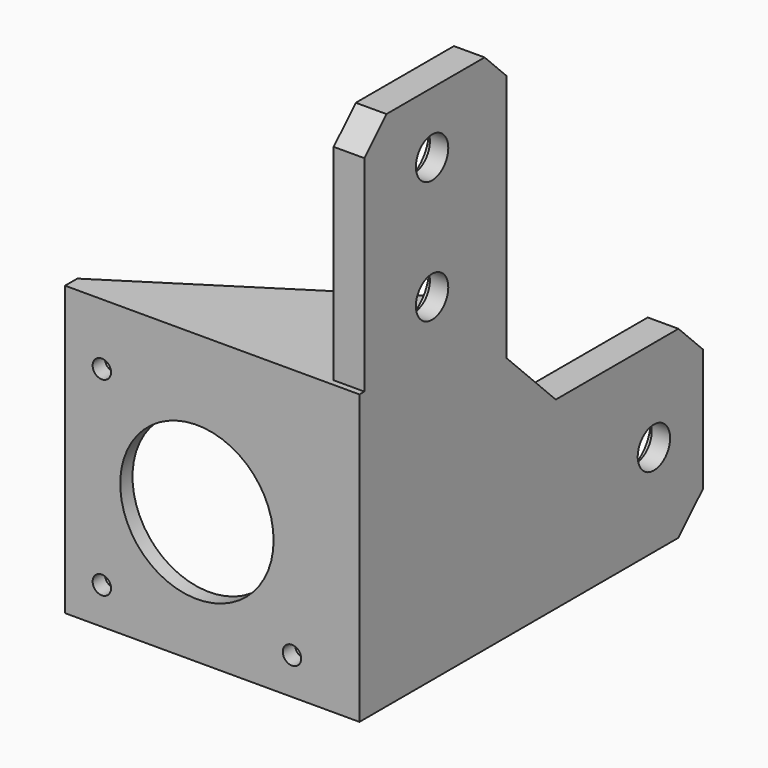
from build123d import *

# Parameters (mm, degrees)
F0_W           = 48
F0_H           = 43
F0_R           = 1.5
F0_R_2         = 12.5
F1_DEPTH       = 2.5
F3_DEPTH       = 5
F5_D           = 6.6
F5_DEPTH       = 20
F5_CBORE_D     = 11.25
F5_CBORE_DEPTH = 2
F7_DEPTH       = 4
F8_DEPTH       = 1


with BuildPart() as f1:
    # F0 (on Front) → F1 (new body)
    with BuildSketch(Plane.XZ):
        with Locations((-24, 21.5)):
            Rectangle(F0_W, F0_H)
        with Locations((-42, 6)):
            Circle(F0_R, mode=Mode.SUBTRACT)
        with Locations((-11, 6)):
            Circle(F0_R, mode=Mode.SUBTRACT)
        with Locations((-26.5, 21.5)):
            Circle(F0_R_2, mode=Mode.SUBTRACT)
        with Locations((-42, 37)):
            Circle(F0_R, mode=Mode.SUBTRACT)
    extrude(amount=-F1_DEPTH)

    # F2 (on Right) → F3 (join)
    with BuildSketch(Plane.YZ):
        Polygon((1, 43), (0, 43), (0, 0), (65, 0), (70, 5), (70, 25), (65, 30), (40, 30), (30, 40), (30, 80.5), (25.5, 85), (5.5, 85), (1, 80.5), align=None)
    extrude(amount=-F3_DEPTH)

    # F5
    with Locations(Plane(origin=(-5, 0, 0), x_dir=(0, -1, 0), z_dir=(-1, 0, 0))):
        with Locations((-14.795874, 75), (-14.795874, 55), (-60, 15)):
            CounterBoreHole(F5_D / 2, F5_CBORE_D / 2, F5_CBORE_DEPTH, depth=F5_DEPTH)

    # F6 (on face) → F7 (join)
    with BuildSketch(Plane.XY.offset(43)):
        Polygon((-5, 30), (-48, 2.5), (-5, 2.5), (-5, 1), (0, 1), (0, 30), align=None)
        Polygon((-48, 2.5), (-48, 0), (0, 0), (0, 1), (-5, 1), (-5, 2.5), align=None)
    extrude(amount=F7_DEPTH)

    # F7_face (on face) → F8 (cut)
    with BuildSketch(Plane(origin=(-19.333333, 11.666667, 43), x_dir=(1, 0, 0), z_dir=(0, 0, -1))):
        Polygon((14.333333, -18.333333), (14.333333, 9.166667), (-28.666667, 9.166667), align=None)
    extrude(amount=-F8_DEPTH, mode=Mode.SUBTRACT)


solid = f1.part
